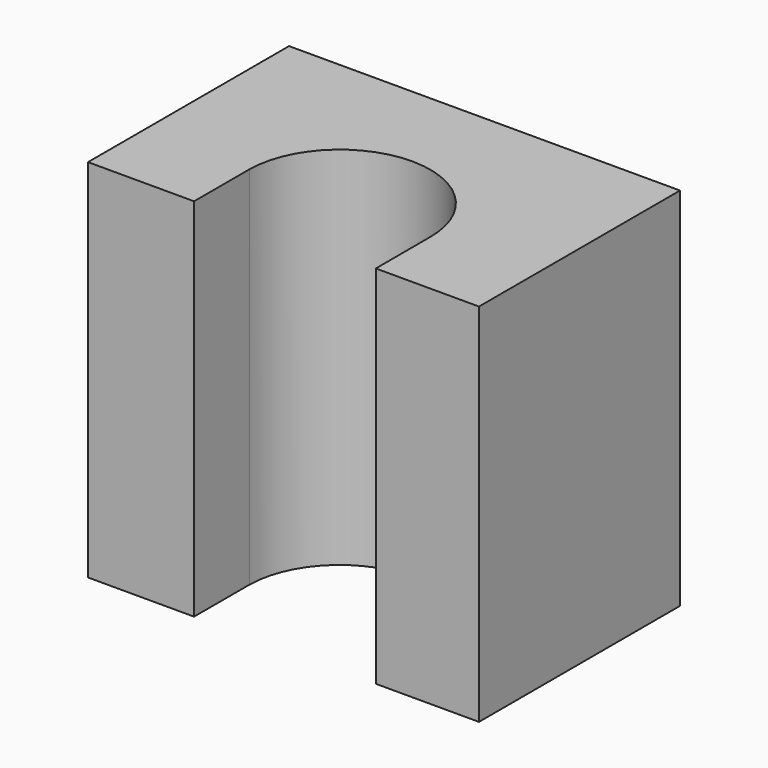
from build123d import *

# Parameters (mm, degrees)
F1_DEPTH = 39


with BuildPart() as f1:
    # F0 (on Top) → F1 (new body)
    with BuildSketch(Plane.XY):
        with BuildLine():
            Line((0, 26.80001), (0, 0))
            Line((0, 0), (11.311256, 0))
            Line((11.311256, 0), (11.311256, 7.377124))
            ThreePointArc((11.311256, 7.377124), (21.105051, 16.979474), (30.690106, 7.168752))
            Line((30.690106, 7.168752), (30.699241, 0))
            Line((30.699241, 0), (41.7, 0))
            Line((41.7, 0), (41.7, 26.80001))
            Line((41.7, 26.80001), (0, 26.80001))
        make_face()
    extrude(amount=F1_DEPTH)


solid = f1.part
